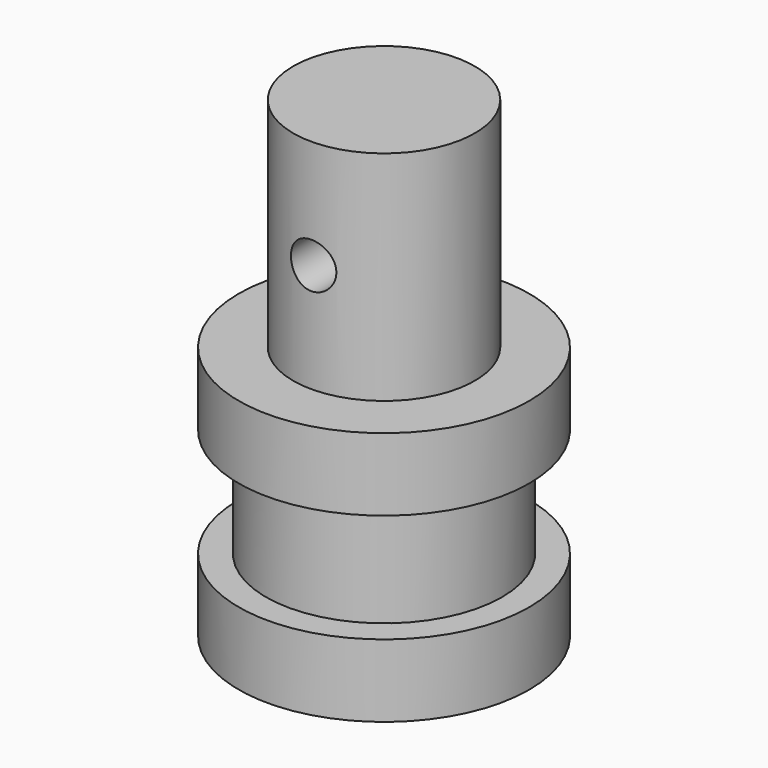
from build123d import *

# Parameters (mm, degrees)
F3_DEPTH      = 12.701
F3_DEPTH_BACK = 12.701


with BuildPart() as f1:
    # F0 (on Front) → F1 (revolve)
    with BuildSketch(Plane.XZ):
        Polygon((0, -20.6375), (0, 20.6375), (-7.9375, 20.6375), (-7.9375, 1.5875), (-12.7, 1.5875), (-12.7, -4.7625), (-10.31875, -4.7625), (-10.31875, -14.2875), (-12.7, -14.2875), (-12.7, -20.6375), align=None)
    revolve(axis=Axis((0, 0, 0), (0, 0, -1)))

    # F2 (on Front) → F3 (cut, two sides)
    with BuildSketch(Plane.XZ) as f3_sk:
        with BuildLine():
            ThreePointArc((0, 13.096875), (-1.403165, 9.709335), (1.984375, 11.1125))
            ThreePointArc((1.984375, 11.1125), (1.403165, 12.515665), (0, 13.096875))
        make_face()
    extrude(amount=F3_DEPTH, mode=Mode.SUBTRACT)
    extrude(f3_sk.sketch, amount=-F3_DEPTH_BACK, mode=Mode.SUBTRACT)


solid = f1.part
